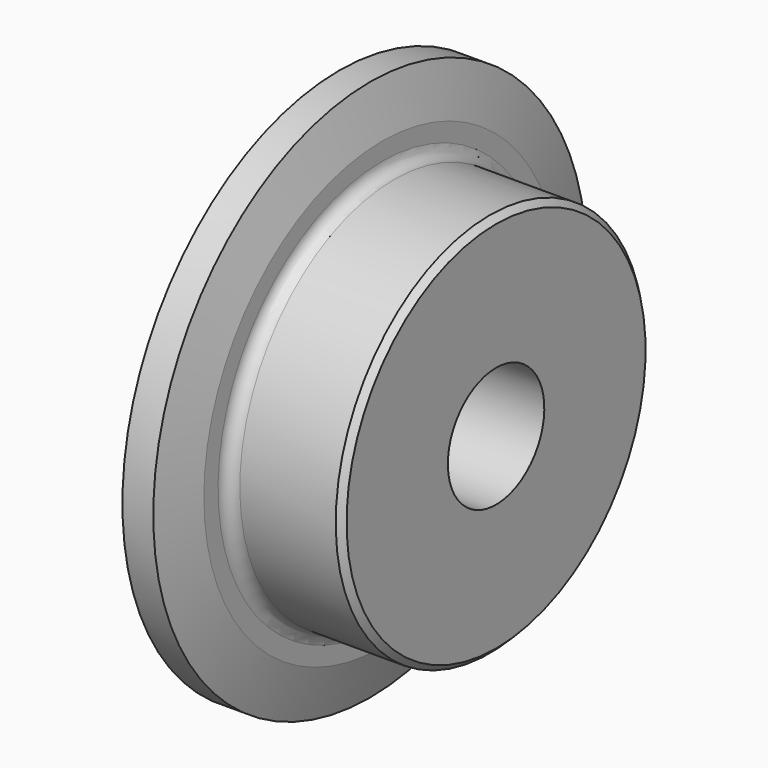
from build123d import *

# Parameters (mm, degrees)
F0_W     = 7.2136
F0_H     = 10.287
F0_H_2   = 17.4625
F0_W_2   = 15.0114
F2_R     = 1.5875
F3_SIZE  = 0.79375
F4_SIZE2 = 6.35
F4_SIZE  = 1.5748


with BuildPart() as f1:
    # F0 (on Front) → F1 (revolve)
    with BuildSketch(Plane.XZ):
        with Locations((3.6068, 30.5435)):
            Rectangle(F0_W, F0_H)
        with Locations((3.6068, 16.66875)):
            Rectangle(F0_W, F0_H_2)
        with Locations((14.7193, 16.66875)):
            Rectangle(F0_W_2, F0_H_2)
    revolve(axis=Axis((17.1843035816, 0, 0), (1, 0, 0)))

    # F2
    f2_edges = [f1.edges().sort_by_distance(p)[0] for p in [
        (7.2136, 0, -25.4),
    ]]
    fillet(f2_edges, radius=F2_R)

    # F3
    f3_edges = [f1.edges().sort_by_distance(p)[0] for p in [
        (22.225, 0, -25.4),
    ]]
    chamfer(f3_edges, length=F3_SIZE)

    # F4
    f4_edges = [f1.edges().sort_by_distance(p)[0] for p in [
        (0, 0, -35.687),
        (7.2136, 0, -35.687),
    ]]
    f4_side = f1.faces().sort_by_distance((3.6068, 0, -35.687))[0]
    chamfer(f4_edges, length=F4_SIZE, length2=F4_SIZE2, reference=f4_side)


solid = f1.part
